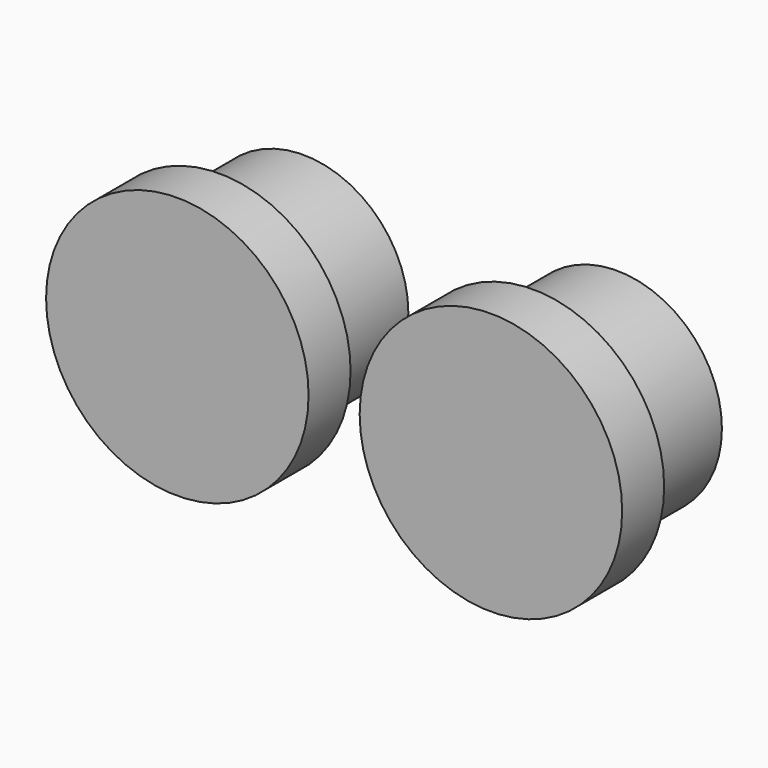
from build123d import *

# Parameters (mm, degrees)
F0_R     = 25.4
F1_DEPTH = 25.4
F2_R     = 31.75
F3_DEPTH = 12.7
F4_R     = 31.75
F5_DEPTH = 12.7


with BuildPart() as f1:
    # F0 (on Front) → F1 (new body)
    with BuildSketch(Plane.XZ):
        with Locations((-37.017502, 0)):
            Circle(F0_R)
        with Locations((38.83642, 0)):
            Circle(F0_R)
    extrude(amount=F1_DEPTH)

    # F2 (on face) → F3 (join)
    with BuildSketch(Plane.XZ.offset(25.4)):
        with Locations((-37.017502, 0)):
            Circle(F2_R)
    extrude(amount=F3_DEPTH)

    # F4 (on face) → F5 (join)
    with BuildSketch(Plane.XZ.offset(25.4)):
        with Locations((38.83642, 0)):
            Circle(F4_R)
    extrude(amount=F5_DEPTH)


solid = f1.part
